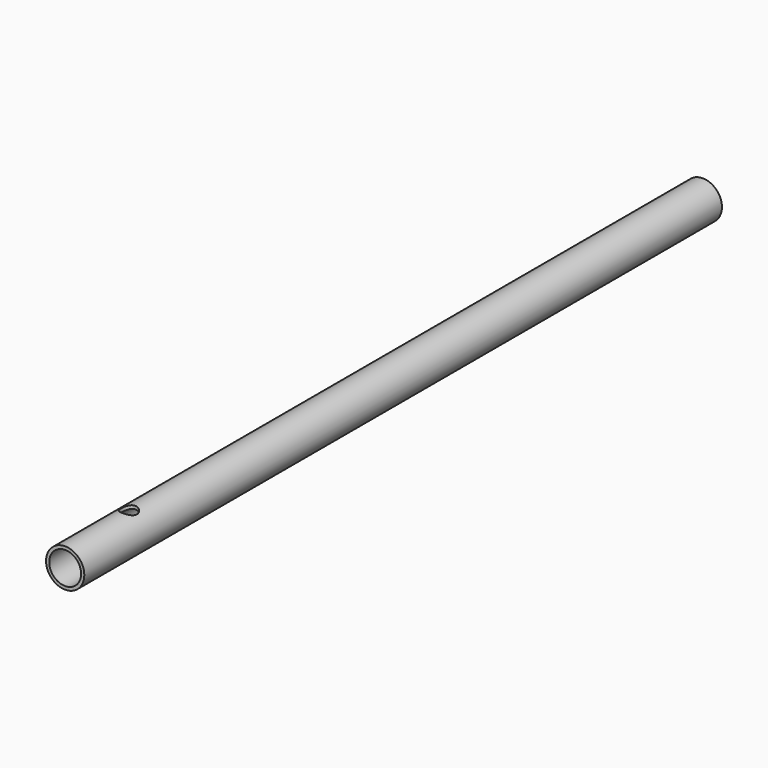
from build123d import *

# Parameters (mm, degrees)
F0_R     = 24
F1_DEPTH = 1000
F2_R     = 20
F3_DEPTH = 1000.001
F4_R     = 10
F5_DEPTH = 25.4


with BuildPart() as f1:
    # F0 (on Front) → F1 (new body)
    with BuildSketch(Plane.XZ):
        Circle(F0_R)
    extrude(amount=-F1_DEPTH)

    # F2 (on Front) → F3 (cut, through all)
    with BuildSketch(Plane.XZ):
        Circle(F2_R)
    extrude(amount=-F3_DEPTH, mode=Mode.SUBTRACT)

    # F4 (on Top) → F5 (cut)
    with BuildSketch(Plane.XY):
        with Locations((0, 100)):
            Circle(F4_R)
    extrude(amount=F5_DEPTH, mode=Mode.SUBTRACT)


solid = f1.part
